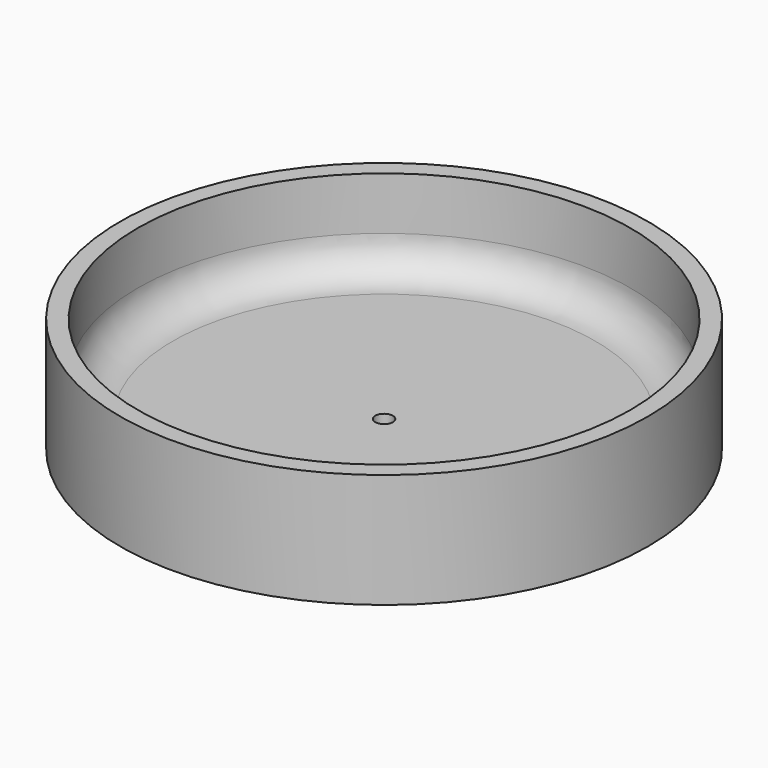
from build123d import *

# Parameters (mm, degrees)
F0_R     = 38.1
F1_DEPTH = 3.81
F2_R     = 38.1
F2_R_2   = 35.56
F3_DEPTH = 12.7
F4_R     = 5.08
F5_R     = 1.27
F6_DEPTH = 25.4
F7_R     = 3.175
F8_DEPTH = 1.27


with BuildPart() as f1:
    # F0 (on Top) → F1 (new body)
    with BuildSketch(Plane.XY):
        Circle(F0_R)
    extrude(amount=F1_DEPTH)

    # F2 (on face) → F3 (join)
    with BuildSketch(Plane.XY.offset(3.81)):
        Circle(F2_R)
        Circle(F2_R_2, mode=Mode.SUBTRACT)
    extrude(amount=F3_DEPTH)

    # F4
    f4_edges = [f1.edges().sort_by_distance(p)[0] for p in [
        (-35.56, 0, 3.81),
    ]]
    fillet(f4_edges, radius=F4_R)

    # F5 (on face) → F6 (cut)
    with BuildSketch(Plane.XY.offset(3.81)):
        Circle(F5_R)
    extrude(amount=-F6_DEPTH, mode=Mode.SUBTRACT)

    # F7 (on face) → F8 (cut)
    with BuildSketch(Plane(origin=(0, 0, 0), x_dir=(1, 0, 0), z_dir=(0, 0, -1))):
        Circle(F7_R)
    extrude(amount=-F8_DEPTH, mode=Mode.SUBTRACT)


solid = f1.part
